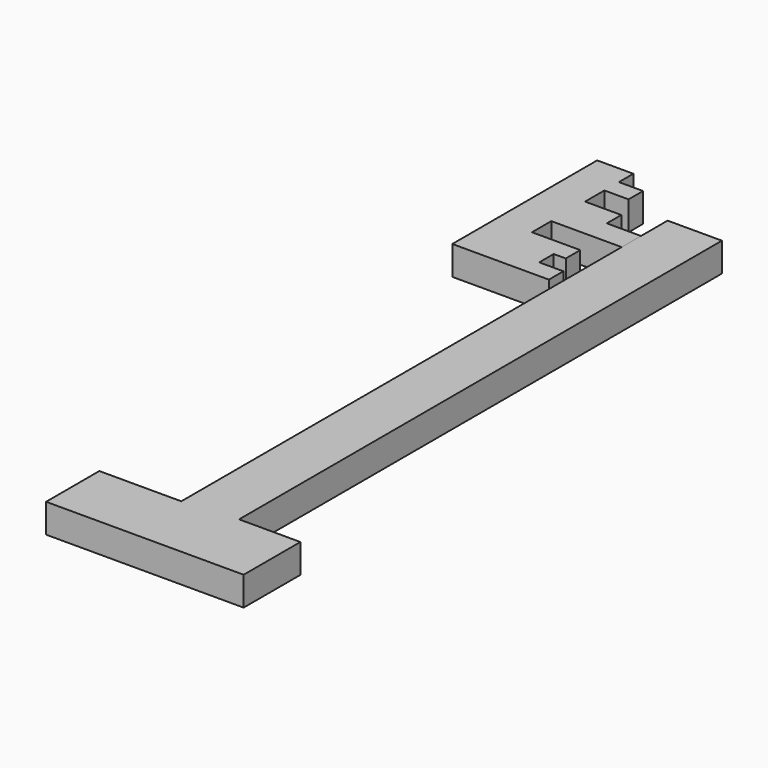
from build123d import *

# Parameters (mm, degrees)
F1_DEPTH = 2.4
F3_DEPTH = 2.4


with BuildPart() as f1:
    # F0 (on Top) → F1 (new body)
    with BuildSketch(Plane.XY):
        Polygon((-28.724621, 38.968814), (-31.724621, 38.968814), (-31.724621, 37.468814), (-31.724621, 35.968814), (-31.724621, 33.968814), (-31.724621, 32.468814), (-31.724621, 23.968814), (-23.724621, 23.968814), (-23.724621, 25.468814), (-25.724621, 25.468814), (-25.724621, 26.968814), (-24.724621, 26.968814), (-24.724621, 28.468814), (-28.724621, 28.468814), (-28.724621, 30.468814), (-22.724621, 30.468814), (-22.724621, 32.468814), (-25.724621, 32.468814), (-25.724621, 33.968814), (-28.724621, 33.968814), (-28.724621, 35.968814), (-26.724621, 35.968814), (-26.724621, 37.468814), (-28.724621, 37.468814), align=None)
    extrude(amount=F1_DEPTH)


with BuildPart() as f3:
    # F2 (on Top) → F3 (new body)
    with BuildSketch(Plane.XY):
        Polygon((-18.392922, 35.22512), (-22.892922, 35.22512), (-22.892922, -15.135371), (-29.682647, -15.135371), (-29.682647, -20.650525), (-13.316381, -20.650525), (-13.316381, -14.77488), (-18.392922, -14.77488), align=None)
    extrude(amount=F3_DEPTH)


solid = Compound([f1.part, f3.part])
